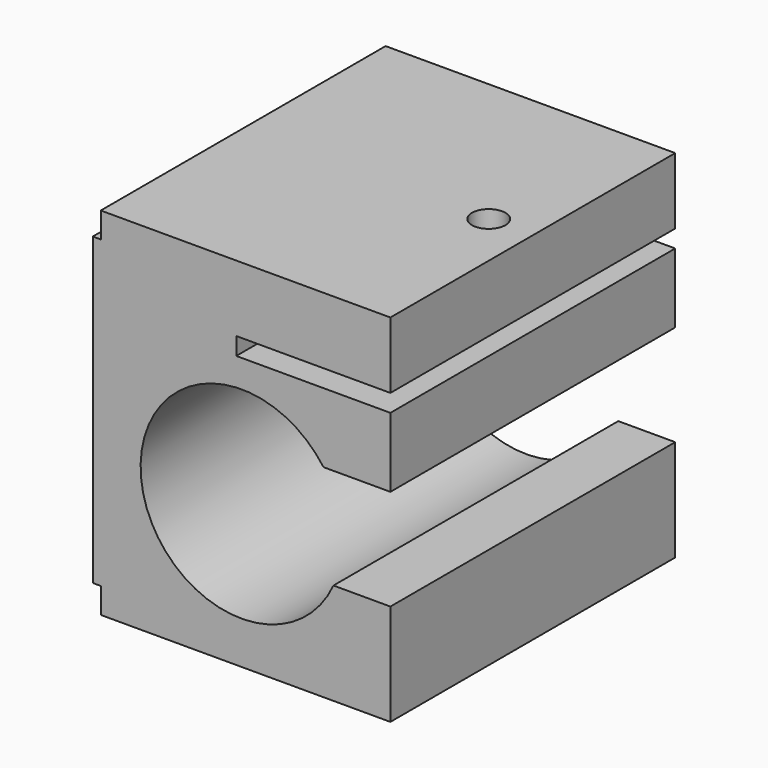
from build123d import *

# Parameters (mm, degrees)
F1_DEPTH = 67
F2_R     = 3.15
F3_DEPTH = 12.5


with BuildPart() as f1:
    # F0 (on Front) → F1 (new body)
    with BuildSketch(Plane.XZ):
        with BuildLine():
            Line((-26.5, -33.5), (28, -33.5))
            Line((28, -33.5), (28, -14.387439))
            Line((28, -14.387439), (17.285494, -14.387439))
            ThreePointArc((17.285494, -14.387439), (-18.908241, -8.365052), (15.411391, 4.612561))
            Line((15.411391, 4.612561), (28, 4.612561))
            Line((28, 4.612561), (28, 17.7))
            Line((28, 17.7), (-1, 17.7))
            Line((-1, 17.7), (-1, 21))
            Line((-1, 21), (28, 21))
            Line((28, 21), (28, 33.5))
            Line((28, 33.5), (-26.5, 33.5))
            Line((-26.5, 33.5), (-26.5, 28.7))
            Line((-26.5, 28.7), (-28, 28.7))
            Line((-28, 28.7), (-28, -28.7))
            Line((-28, -28.7), (-26.5, -28.7))
            Line((-26.5, -28.7), (-26.5, -33.5))
        make_face()
    extrude(amount=F1_DEPTH)

    # F2 (on face) → F3 (cut)
    with BuildSketch(Plane.XY.offset(33.5)):
        with Locations((19.7, -33.5)):
            Circle(F2_R)
    extrude(amount=-F3_DEPTH, mode=Mode.SUBTRACT)


solid = f1.part
